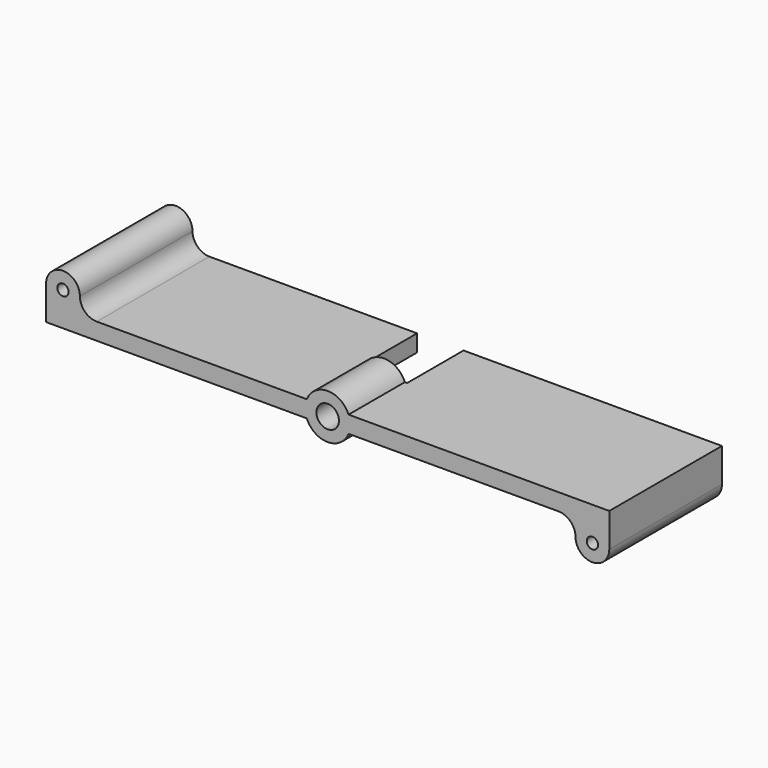
from build123d import *

# Parameters (mm, degrees)
F0_R     = 1
F0_R_2   = 2
F1_DEPTH = 25
F2_W     = 8.25
F2_H     = 12.5
F3_DEPTH = 12.5


with BuildPart() as f1:
    # F0 (on Front) → F1 (new body)
    with BuildSketch(Plane.XZ):
        with BuildLine():
            Line((-3.708099, 1.5), (-41, 1.5))
            ThreePointArc((-41, 1.5), (-43.12132, 2.37868), (-44, 4.5))
            ThreePointArc((-44, 4.5), (-47, 7.5), (-50, 4.5))
            Line((-50, 4.5), (-50, 2.5))
            Line((-50, 2.5), (-50, 1.5))
            Line((-50, 1.5), (-50, -1.5))
            Line((-50, -1.5), (-3.708099, -1.5))
            ThreePointArc((-3.708099, -1.5), (0, -4), (3.708099, -1.5))
            Line((3.708099, -1.5), (41, -1.5))
            ThreePointArc((41, -1.5), (43.12132, -2.37868), (44, -4.5))
            ThreePointArc((44, -4.5), (47, -7.5), (50, -4.5))
            Line((50, -4.5), (50, -1.5))
            Line((50, -1.5), (50, 1.5))
            Line((50, 1.5), (3.708099, 1.5))
            ThreePointArc((3.708099, 1.5), (0, 4), (-3.708099, 1.5))
        make_face()
        with Locations((47, -4.5)):
            Circle(F0_R, mode=Mode.SUBTRACT)
        with Locations((-47, 4.5)):
            Circle(F0_R, mode=Mode.SUBTRACT)
        Circle(F0_R_2, mode=Mode.SUBTRACT)
    extrude(amount=F1_DEPTH)

    # F2 (on Top) → F3 (cut, symmetric)
    with BuildSketch(Plane.XY):
        with Locations((0, -6.25)):
            Rectangle(F2_W, F2_H)
    extrude(amount=F3_DEPTH, both=True, mode=Mode.SUBTRACT)


solid = f1.part
